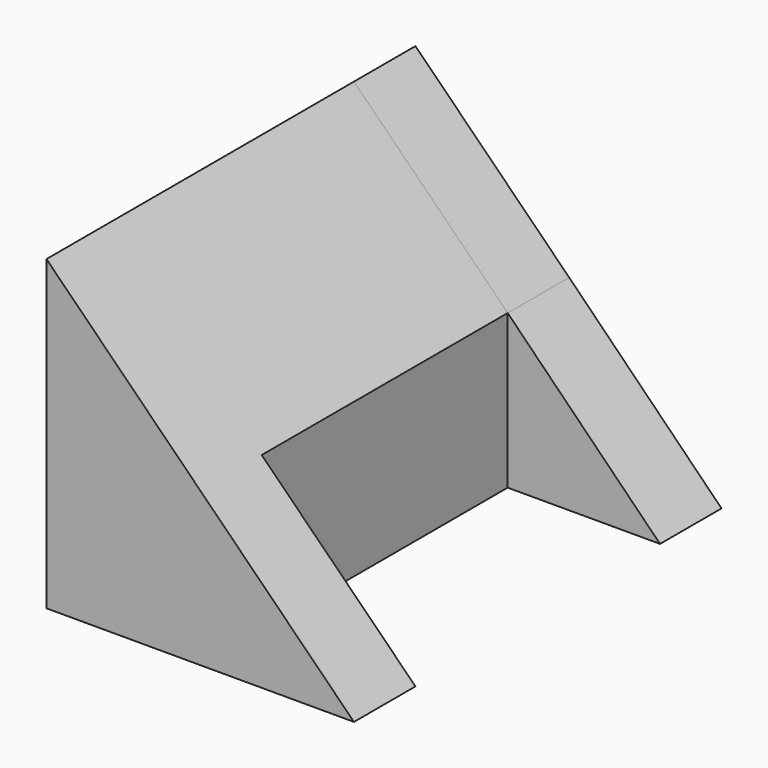
from build123d import *

# Parameters (mm, degrees)
F1_DEPTH = 6.35
F2_W     = 25.4
F2_H     = 12.7
F3_DEPTH = 12.7
F5_DEPTH = 25.4
F7_DEPTH = 6.35
F9_DEPTH = 6.35


with BuildPart() as f1:
    # F0 (on Front) → F1 (new body)
    with BuildSketch(Plane.XZ):
        Polygon((0, 25.4), (0, 0), (25.4, 0), align=None)
    extrude(amount=-F1_DEPTH)

    # F2 (on face) → F3 (join)
    with BuildSketch(Plane(origin=(0, 0, 0), x_dir=(0, -1, 0), z_dir=(-1, 0, 0))):
        with Locations((-19.05, 6.35)):
            Rectangle(F2_W, F2_H)
    extrude(amount=-F3_DEPTH)

    # F4 (on face) → F5 (join)
    with BuildSketch(Plane(origin=(0, 31.75, 0), x_dir=(-1, 0, 0), z_dir=(0, 1, 0))):
        Polygon((-12.7, 12.7), (0, 12.7), (0, 25.4), align=None)
    extrude(amount=-F5_DEPTH)


with BuildPart() as f7:
    # F6 (on face) → F7 (new body)
    with BuildSketch(Plane(origin=(0, 31.75, 0), x_dir=(-1, 0, 0), z_dir=(0, 1, 0))):
        Polygon((-25.282543, 0), (-12.7, 0), (-12.7, 12.7), align=None)
    extrude(amount=F7_DEPTH)


with BuildPart() as f9:
    # F8 (on face) → F9 (new body)
    with BuildSketch(Plane(origin=(0, 38.1, 0), x_dir=(-1, 0, 0), z_dir=(0, 1, 0))):
        Polygon((0, 25.4), (-12.7, 12.7), (-12.7, 0), (0, 0), align=None)
    extrude(amount=-F9_DEPTH)


solid = Compound([f1.part, f7.part, f9.part])
